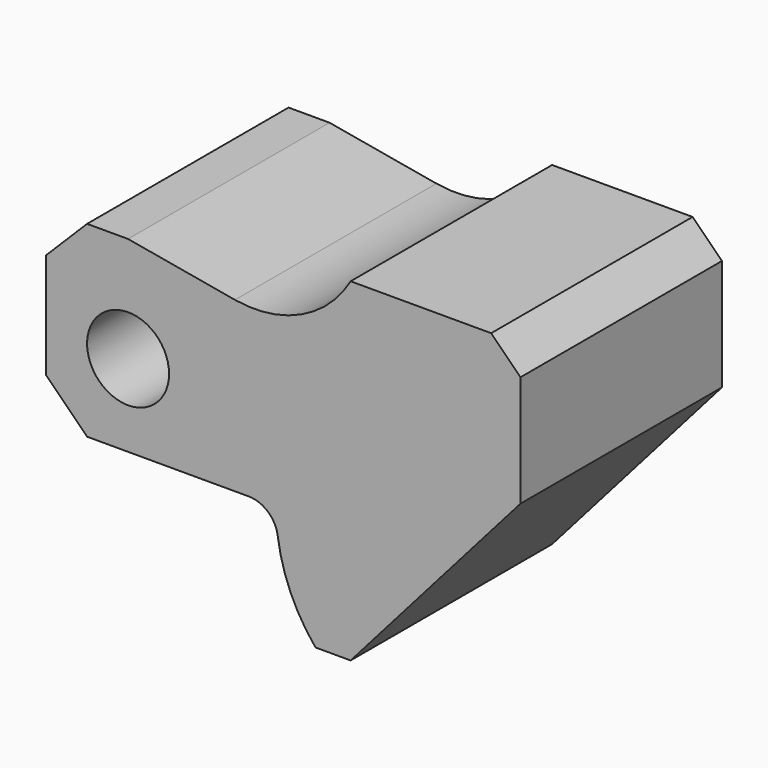
from build123d import *

# Parameters (mm, degrees)
F0_R     = 7
F1_DEPTH = 21.5


with BuildPart() as f1:
    # F0 (on Front) → F1 (new body, symmetric)
    with BuildSketch(Plane.XZ):
        with BuildLine():
            Line((-14, 11), (-14, -7))
            Line((-14, -7), (-7, -14))
            Line((-7, -14), (20.601225, -14))
            ThreePointArc((20.601225, -14), (23.892034, -15.235617), (25.556371, -18.331769))
            ThreePointArc((25.556371, -18.331769), (27.745149, -26.119689), (32, -33))
            Line((32, -33), (38, -33))
            Line((38, -33), (67, 0))
            Line((67, 0), (67, 19))
            Line((67, 19), (62, 24))
            Line((62, 24), (38, 24))
            ThreePointArc((38, 24), (29.574973, 16.276069), (18.243085, 14.783252))
            Line((18.243085, 14.783252), (0, 18))
            Line((0, 18), (-7, 18))
            Line((-7, 18), (-14, 11))
        make_face()
        Circle(F0_R, mode=Mode.SUBTRACT)
    extrude(amount=F1_DEPTH, both=True)


solid = f1.part
